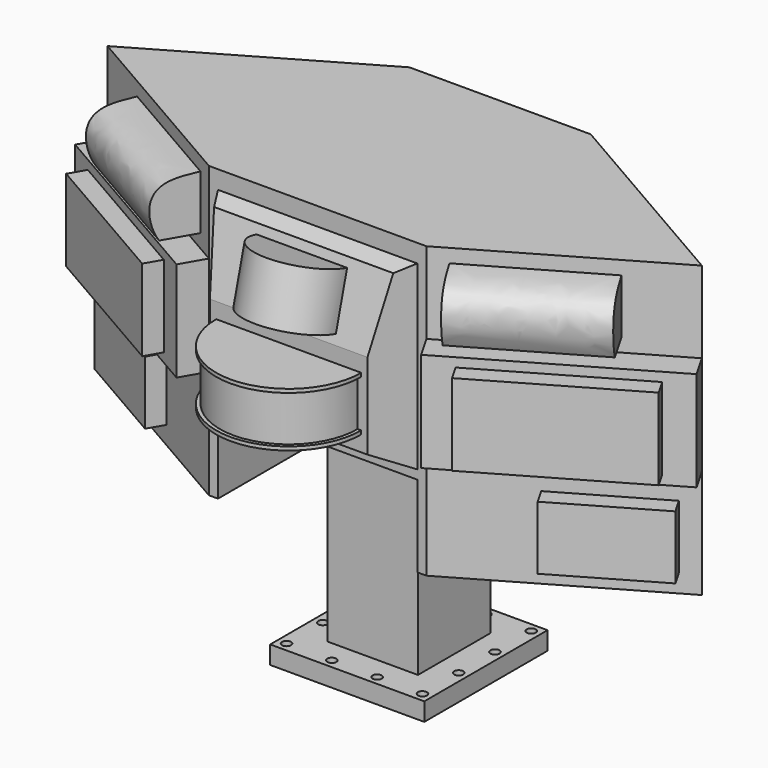
from build123d import *

# Parameters (mm, degrees)
F1_DEPTH  = 203.2
F2_W      = 76.2
F2_H      = 44.45
F3_DEPTH  = 12.7
F4_W      = 152.4
F4_H      = 69.85
F5_DEPTH  = 19.05
F6_W      = 114.3
F6_H      = 57.15
F7_DEPTH  = 12.7
F8_W      = 95.25
F8_H      = 38.1
F9_DEPTH  = 31.75
F11_DEPTH = 95.25
F12_W     = 139.7
F12_H     = 127
F13_DEPTH = 25.4
F15_DEPTH = 127
F17_DEPTH = 76.2
F19_ANGLE = 180
F20_W     = 31.75
F20_H     = 38.0410186947
F21_ANGLE = 180
F22_W     = 139.7
F22_H     = 57.15
F23_DEPTH = 159.7323484187
F25_W     = 63.5
F25_H     = 63.5
F26_DEPTH = 152.4
F27_W     = 107.95
F27_H     = 107.95
F28_DEPTH = 12.7
F29_R     = 3.175
F30_DEPTH = 12.7


with BuildPart() as f1:
    # F0 (on Top) → F1 (new body)
    with BuildSketch(Plane.XY):
        Polygon((-76.2, 0), (0, 0), (76.2, 0), (208.1822715367, 76.2), (63.5, 159.7323484187), (0, 159.7323484187), (-63.5, 159.7323484187), (-208.1822715367, 76.2), align=None)
    extrude(amount=F1_DEPTH)

    # F2 (on face) → F3 (join)
    with BuildSketch(Plane(origin=(19.05, -32.9955678842, 0), x_dir=(0.8660254038, 0.5, 0), z_dir=(0.5, -0.8660254038, 0))):
        with Locations((167.5911357684, 34.925)):
            Rectangle(F2_W, F2_H)
    extrude(amount=F3_DEPTH)

    # F4 (on face) → F5 (join)
    with BuildSketch(Plane(origin=(19.05, -32.9955678842, 0), x_dir=(0.8660254038, 0.5, 0), z_dir=(0.5, -0.8660254038, 0))):
        with Locations((142.1911357684, 111.125)):
            Rectangle(F4_W, F4_H)
    extrude(amount=F5_DEPTH)

    # F6 (on face) → F7 (join)
    with BuildSketch(Plane(origin=(28.575, -49.4933518263, 0), x_dir=(0.8660254038, 0.5, 0), z_dir=(0.5, -0.8660254038, 0))):
        with Locations((142.1911357684, 111.125)):
            Rectangle(F6_W, F6_H)
    extrude(amount=F7_DEPTH)

    # F8 (on face) → F9 (join)
    with BuildSketch(Plane(origin=(19.05, -32.9955678842, 0), x_dir=(0.8660254038, 0.5, 0), z_dir=(0.5, -0.8660254038, 0))):
        with Locations((126.3161357684, 174.625)):
            Rectangle(F8_W, F8_H)
    extrude(amount=F9_DEPTH)

    # F10 (on face) → F11 (cut, through all)
    with BuildSketch(Plane(origin=(68.1485226281, 39.3455678842, 0), x_dir=(0.5, -0.8660254038, 0), z_dir=(-0.8660254038, -0.5, 0))):
        with BuildLine():
            Line((69.85, 193.675), (38.1, 193.675))
            add(Edge.make_bspline(
                [(38.1, 193.675), (45.3948823455, 193.2153032956), (59.8621743056, 192.3554471638), (70.7391260405, 179.5930154775), (66.9907434886, 162.4530172158), (62.3683556914, 155.575)],
                knots=[0, 0, 0, 0, 0.3473900959, 0.6300376929, 1, 1, 1, 1], degree=3))
            Line((62.3683556914, 155.575), (69.85, 155.575))
            Line((69.85, 155.575), (69.85, 193.675))
        make_face()
    extrude(amount=-F11_DEPTH, mode=Mode.SUBTRACT)

    # F12 (on face) → F13 (join)
    with BuildSketch(Plane.XZ):
        with Locations((0, 127)):
            Rectangle(F12_W, F12_H)
    extrude(amount=F13_DEPTH)

    # F14 (on face) → F15 (cut, through all)
    with BuildSketch(Plane(origin=(0, 0, 63.5), x_dir=(1, 0, 0), z_dir=(0, 0, -1))):
        Polygon((69.85, 0), (69.85, 25.4), (55.1853031626, 25.4), align=None)
        Polygon((-69.85, 25.4), (-69.85, 0), (-55.1853031626, 25.4), align=None)
    extrude(amount=-F15_DEPTH, mode=Mode.SUBTRACT)

    # F16 (on Right) → F17 (cut, symmetric)
    with BuildSketch(Plane.YZ):
        Polygon((-25.4, 63.5), (0, 63.5), (-25.4, 78.1646968374), align=None)
        Polygon((-25.4, 190.5), (-25.4, 138.2009377176), (-12.2672579939, 187.2129981271), (0, 190.5), align=None)
    extrude(amount=F17_DEPTH, both=True, mode=Mode.SUBTRACT)

    # F18 (on face) → F19 (revolve)
    with BuildSketch(Plane.XZ.offset(25.4)):
        Polygon((50.8, 127.2328172775), (0, 127.2328172775), (0, 89.1328172775), (50.8, 89.1328172775), (50.8, 91.6728172775), (48.26, 91.6728172775), (48.26, 124.6928172775), (50.8, 124.6928172775), align=None)
    revolve(axis=Axis((0, -25.4, 108.1828172775), (0, 0, -1)), revolution_arc=F19_ANGLE)

    # F20 (on face) → F21 (revolve)
    with BuildSketch(Plane(origin=(0, -58.2487570575, 15.6077074137), x_dir=(1, 0, 0), z_dir=(0, -0.9659258263, 0.2588190451))):
        with Locations((15.875, 152.2883605606)):
            Rectangle(F20_W, F20_H)
    revolve(axis=Axis((0, -18.8336289969, 162.7069679224), (0, -0.2588190451, -0.9659258263)), revolution_arc=F21_ANGLE)

    # F22 (on face) → F23 (cut, through all)
    with BuildSketch(Plane.XZ):
        with Locations((0, 28.575)):
            Rectangle(F22_W, F22_H)
    extrude(amount=-F23_DEPTH, mode=Mode.SUBTRACT)

    # F24: F1 across plane


with BuildPart() as f1_1:
    add(f1.part)
    add(f1.part.mirror(Plane.YZ))

    # F25 (on face) → F26 (join)
    with BuildSketch(Plane(origin=(0, 0, 57.15), x_dir=(1, 0, 0), z_dir=(0, 0, -1))):
        with Locations((0, -79.8661742093)):
            Rectangle(F25_W, F25_H)
    extrude(amount=F26_DEPTH)

    # F27 (on face) → F28 (join)
    with BuildSketch(Plane(origin=(0, 0, -95.25), x_dir=(1, 0, 0), z_dir=(0, 0, -1))):
        with Locations((0, -79.8661742093)):
            Rectangle(F27_W, F27_H)
    extrude(amount=F28_DEPTH)

    # F29 (on face) → F30 (cut, through all)
    with BuildSketch(Plane(origin=(0, 0, -107.95), x_dir=(1, 0, 0), z_dir=(0, 0, -1))):
        with Locations((-47.625, -32.2411742093)):
            Circle(F29_R)
        with Locations((-47.625, -63.9911742093)):
            Circle(F29_R)
        with Locations((-15.875, -32.2411742093)):
            Circle(F29_R)
        with Locations((-47.625, -95.7411742093)):
            Circle(F29_R)
        with Locations((-47.625, -127.4911742093)):
            Circle(F29_R)
        with Locations((-15.875, -127.4911742093)):
            Circle(F29_R)
        with Locations((15.875, -32.2411742093)):
            Circle(F29_R)
        with Locations((47.625, -32.2411742093)):
            Circle(F29_R)
        with Locations((47.625, -63.9911742093)):
            Circle(F29_R)
        with Locations((47.625, -95.7411742093)):
            Circle(F29_R)
        with Locations((47.625, -127.4911742093)):
            Circle(F29_R)
        with Locations((15.875, -127.4911742093)):
            Circle(F29_R)
    extrude(amount=-F30_DEPTH, mode=Mode.SUBTRACT)


solid = f1_1.part
